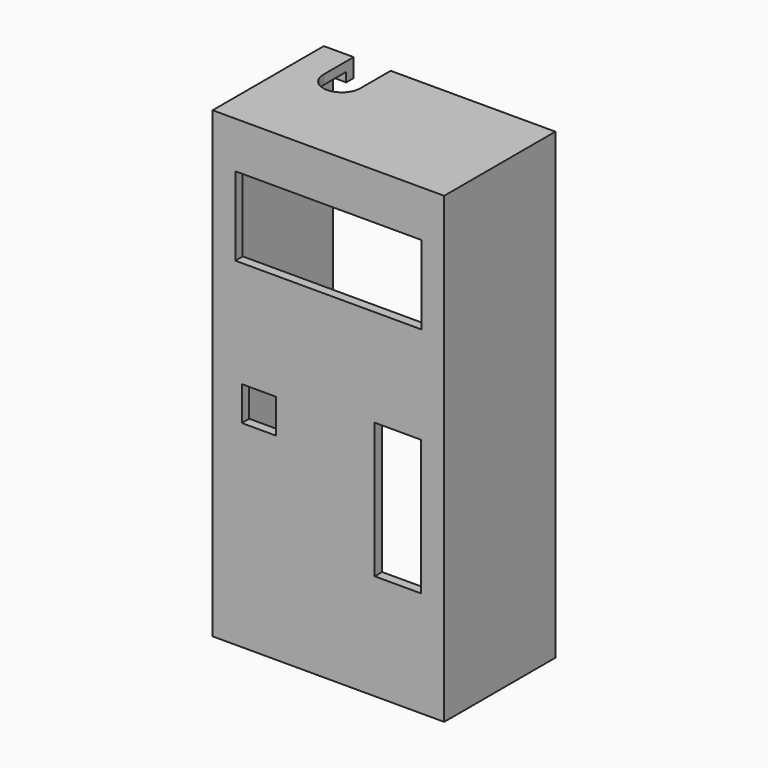
from build123d import *

# Parameters (mm, degrees)
F0_W     = 63.5
F0_H     = 127
F0_W_2   = 58.42
F0_H_2   = 121.92
F0_W_3   = 9.398
F0_H_3   = 9.398
F0_W_4   = 12.7
F0_H_4   = 37.084
F0_W_5   = 51.054
F0_H_5   = 21.59
F1_DEPTH = 2.54
F2_DEPTH = 38.1
F3_W     = 58.42
F3_H     = 2.54
F4_DEPTH = 2.54
F6_DEPTH = 12.0904


with BuildPart() as f1:
    # F0 (on Front) → F1 (new body)
    with BuildSketch(Plane.XZ):
        Rectangle(F0_W, F0_H)
        Rectangle(F0_W_2, F0_H_2, mode=Mode.SUBTRACT)
        Rectangle(F0_W_2, F0_H_2)
        with Locations((-19.05, -4.699)):
            Rectangle(F0_W_3, F0_H_3, mode=Mode.SUBTRACT)
        with Locations((19.05, -16.002)):
            Rectangle(F0_W_4, F0_H_4, mode=Mode.SUBTRACT)
        with Locations((0, 40.005)):
            Rectangle(F0_W_5, F0_H_5, mode=Mode.SUBTRACT)
    extrude(amount=-F1_DEPTH)

    # F0 (on Front) → F2 (join)
    with BuildSketch(Plane.XZ):
        Rectangle(F0_W, F0_H)
        Rectangle(F0_W_2, F0_H_2, mode=Mode.SUBTRACT)
    extrude(amount=-F2_DEPTH)

    # F3 (on face) → F4 (join)
    with BuildSketch(Plane(origin=(0, 0, 60.96), x_dir=(1, 0, 0), z_dir=(0, 0, -1))):
        with Locations((0, -36.83)):
            Rectangle(F3_W, F3_H)
    extrude(amount=F4_DEPTH)

    # F5 (on face) → F6 (cut)
    with BuildSketch(Plane.XY.offset(63.5)):
        with BuildLine():
            ThreePointArc((-23.5712, 27.7114), (-18.4912, 22.6314), (-13.4112, 27.7114))
            ThreePointArc((-13.4112, 27.7114), (-18.4912, 32.7914), (-23.5712, 27.7114))
        make_face()
        with BuildLine():
            ThreePointArc((-23.5712, 27.7114), (-18.4912, 32.7914), (-13.4112, 27.7114))
            Line((-13.4112, 27.7114), (-13.4112, 38.1))
            Line((-13.4112, 38.1), (-23.5712, 38.1))
            Line((-23.5712, 38.1), (-23.5712, 27.7114))
        make_face()
    extrude(amount=-F6_DEPTH, mode=Mode.SUBTRACT)


solid = f1.part
